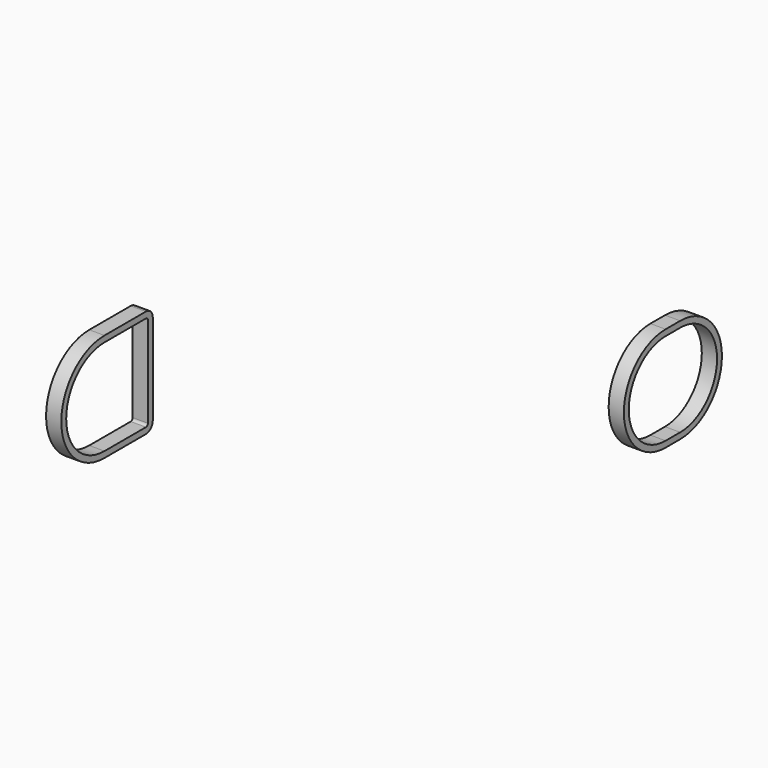
from build123d import *

# Parameters (mm, degrees)
F0_W      = 2.5
F0_H      = 1
F1_DEPTH  = 3
F2_R      = 0.593574548
F3_DEPTH  = 25
F4_ANGLE  = 180
F5_DEPTH  = 3
F1_FACE_W = 2.5
F1_FACE_H = 1
F9_ANGLE  = 180
F13_DEPTH = 2.5


with BuildPart() as f1:
    # F0 (on Front) → F1 (new body)
    with BuildSketch(Plane.XZ):
        with Locations((0.345171403, 8.05)):
            Rectangle(F0_W, F0_H)
    extrude(amount=-F1_DEPTH)

    # F0 (on Front) → F4 (revolve)
    with BuildSketch(Plane.XZ):
        with Locations((0.345171403, 8.05)):
            Rectangle(F0_W, F0_H)
    revolve(axis=Axis((1.4966485378, 0, 0), (1, 0, 0)), revolution_arc=F4_ANGLE)

    # F5 (add): a face of the model
    f5_faces = [f1.faces().sort_by_distance(p)[0] for p in [
        (0.345171403, 0, -8.05),
    ]]
    extrude(f5_faces, amount=F5_DEPTH)

    # F1_face (on face) → F9 (revolve)
    with BuildSketch(Plane(origin=(0.345171403, 3, 8.05), x_dir=(1, 0, 0), z_dir=(0, 1, 0))):
        Rectangle(F1_FACE_W, F1_FACE_H)
    revolve(axis=Axis((-0.8504823782, 3, 0), (-1, 0, 0)), revolution_arc=F9_ANGLE)


with BuildPart() as f3:
    # F2 (on Right) → F3 (new body)
    with BuildSketch(Plane.YZ):
        Circle(F2_R)
    extrude(amount=F3_DEPTH)


with BuildPart() as f1_1:
    # F10: moved
    add(f1.part.moved(Location((55.6, 0, 0))))


with BuildPart() as f1_2:
    # F11: moved
    add(f1_1.part.moved(Location((0, 46.7, 0))))


with BuildPart() as f13:
    # F12 (on Right) → F13 (new body)
    with BuildSketch(Plane.YZ):
        with BuildLine():
            Line((8.5040933831, 8.85), (0, 8.85))
            ThreePointArc((0, 8.85), (-6.2578950135, 6.2578950135), (-8.85, 0))
            ThreePointArc((-8.85, 0), (-6.2578950135, -6.2578950135), (0, -8.85))
            Line((0, -8.85), (8.5040933831, -8.85))
            ThreePointArc((8.5040933831, -8.85), (9.4940428768, -8.4399494937), (9.9040933831, -7.45))
            Line((9.9040933831, -7.45), (9.9040933831, 0))
            Line((9.9040933831, 0), (9.9040933831, 7.45))
            ThreePointArc((9.9040933831, 7.45), (9.4940428768, 8.4399494937), (8.5040933831, 8.85))
        make_face()
        with BuildLine():
            ThreePointArc((-7.85, 0), (-5.5507882323, 5.5507882323), (0, 7.85))
            Line((0, 7.85), (8.5040933831, 7.85))
            ThreePointArc((8.5040933831, 7.85), (8.7869360956, 7.7328427125), (8.9040933831, 7.45))
            Line((8.9040933831, 7.45), (8.9040933831, 0))
            Line((8.9040933831, 0), (8.9040933831, -7.45))
            ThreePointArc((8.9040933831, -7.45), (8.7869360956, -7.7328427125), (8.5040933831, -7.85))
            Line((8.5040933831, -7.85), (0, -7.85))
            ThreePointArc((0, -7.85), (-5.5507882323, -5.5507882323), (-7.85, 0))
        make_face(mode=Mode.SUBTRACT)
    extrude(amount=F13_DEPTH)


solid = Compound([f1_2.part, f13.part])
